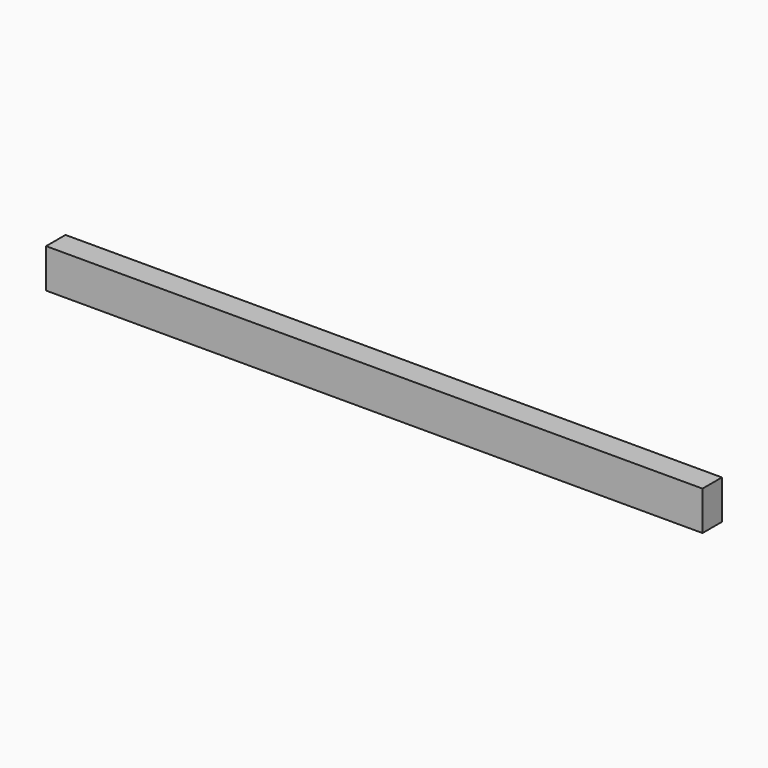
from build123d import *

# Parameters (mm, degrees)
BINDER_W  = 20.7
BINDER_H  = 33.4
PAD_DEPTH = 280


with BuildPart() as part:
    # Binder → Pad (new body, symmetric)
    with BuildSketch(Plane(origin=(0, 0, 16.7), x_dir=(0, -1, 0), z_dir=(1, 0, 0))):
        Rectangle(BINDER_W, BINDER_H)
    extrude(amount=PAD_DEPTH, both=True)


solid = part.part
